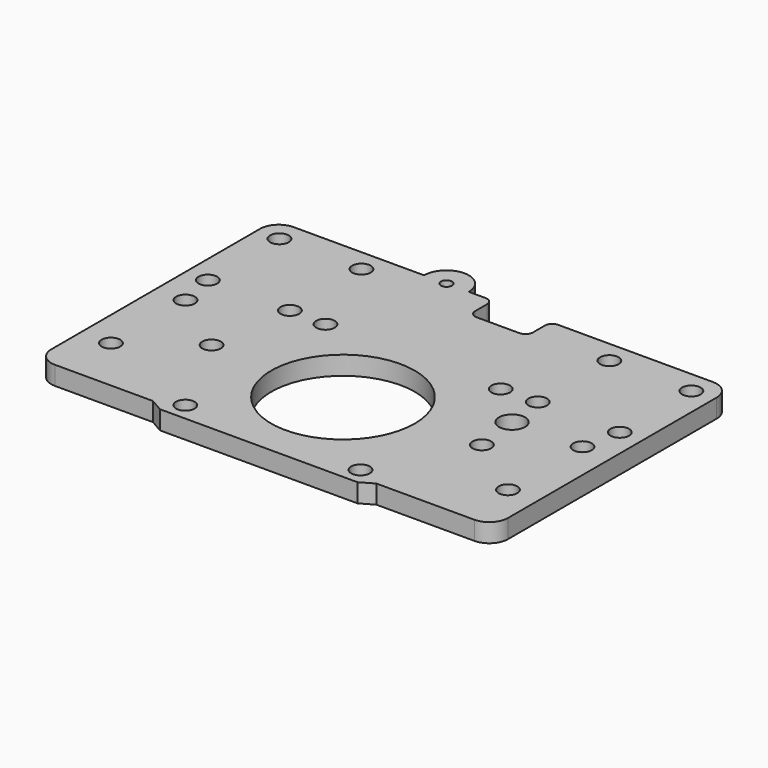
from build123d import *

# Parameters (mm, degrees)
F0_R     = 2.5
F0_R_2   = 19.25
F0_R_3   = 3.5
F0_R_4   = 1.5
F1_DEPTH = 5


with BuildPart() as f1:
    # F0 (on Top) → F1 (new body)
    with BuildSketch(Plane.XY):
        with BuildLine():
            Line((56.25, 38), (14.75, 38))
            ThreePointArc((14.75, 38), (13.335786, 37.414214), (12.75, 36))
            Line((12.75, 36), (12.75, 32))
            ThreePointArc((12.75, 32), (12.164214, 30.585786), (10.75, 30))
            Line((10.75, 30), (-0.75, 30))
            ThreePointArc((-0.75, 30), (-2.164214, 30.585786), (-2.75, 32))
            Line((-2.75, 32), (-2.75, 36))
            ThreePointArc((-2.75, 36), (-3.335786, 37.414214), (-4.75, 38))
            Line((-4.75, 38), (-9.25, 38))
            ThreePointArc((-9.25, 38), (-15.25, 44), (-21.25, 38))
            Line((-21.25, 38), (-56.25, 38))
            ThreePointArc((-56.25, 38), (-59.785534, 36.535534), (-61.25, 33))
            Line((-61.25, 33), (-61.25, -37))
            ThreePointArc((-61.25, -37), (-59.785534, -40.535534), (-56.25, -42))
            Line((-56.25, -42), (-29.964102, -42))
            Line((-29.964102, -42), (-26.5, -44))
            Line((-26.5, -44), (26.5, -44))
            Line((26.5, -44), (29.964101, -42))
            Line((29.964101, -42), (56.25, -42))
            ThreePointArc((56.25, -42), (59.785534, -40.535534), (61.25, -37))
            Line((61.25, -37), (61.25, 33))
            ThreePointArc((61.25, 33), (59.785534, 36.535534), (56.25, 38))
        make_face()
        with Locations((-53.25, -27)):
            Circle(F0_R, mode=Mode.SUBTRACT)
        with Locations((-23.5, -39.25)):
            Circle(F0_R, mode=Mode.SUBTRACT)
        with Locations((-36.25, -14.5)):
            Circle(F0_R, mode=Mode.SUBTRACT)
        with Locations((-53.25, -2)):
            Circle(F0_R, mode=Mode.SUBTRACT)
        with Locations((23.5, -39.25)):
            Circle(F0_R, mode=Mode.SUBTRACT)
        with Locations((53.25, -27)):
            Circle(F0_R, mode=Mode.SUBTRACT)
        with Locations((0, -15.75)):
            Circle(F0_R_2, mode=Mode.SUBTRACT)
        with Locations((36.25, -14.5)):
            Circle(F0_R, mode=Mode.SUBTRACT)
        with Locations((34.75, -2.5)):
            Circle(F0_R_3, mode=Mode.SUBTRACT)
        with Locations((53.25, -2)):
            Circle(F0_R, mode=Mode.SUBTRACT)
        with Locations((-55.25, 8)):
            Circle(F0_R, mode=Mode.SUBTRACT)
        with Locations((-33.25, 8)):
            Circle(F0_R, mode=Mode.SUBTRACT)
        with Locations((-23.5, 7.75)):
            Circle(F0_R, mode=Mode.SUBTRACT)
        with Locations((-55.25, 32)):
            Circle(F0_R, mode=Mode.SUBTRACT)
        with Locations((-33.25, 32)):
            Circle(F0_R, mode=Mode.SUBTRACT)
        with Locations((-15.25, 38)):
            Circle(F0_R_4, mode=Mode.SUBTRACT)
        with Locations((23.5, 7.75)):
            Circle(F0_R, mode=Mode.SUBTRACT)
        with Locations((33.25, 8)):
            Circle(F0_R, mode=Mode.SUBTRACT)
        with Locations((55.25, 8)):
            Circle(F0_R, mode=Mode.SUBTRACT)
        with Locations((33.25, 32)):
            Circle(F0_R, mode=Mode.SUBTRACT)
        with Locations((55.25, 32)):
            Circle(F0_R, mode=Mode.SUBTRACT)
    extrude(amount=F1_DEPTH)


solid = f1.part
